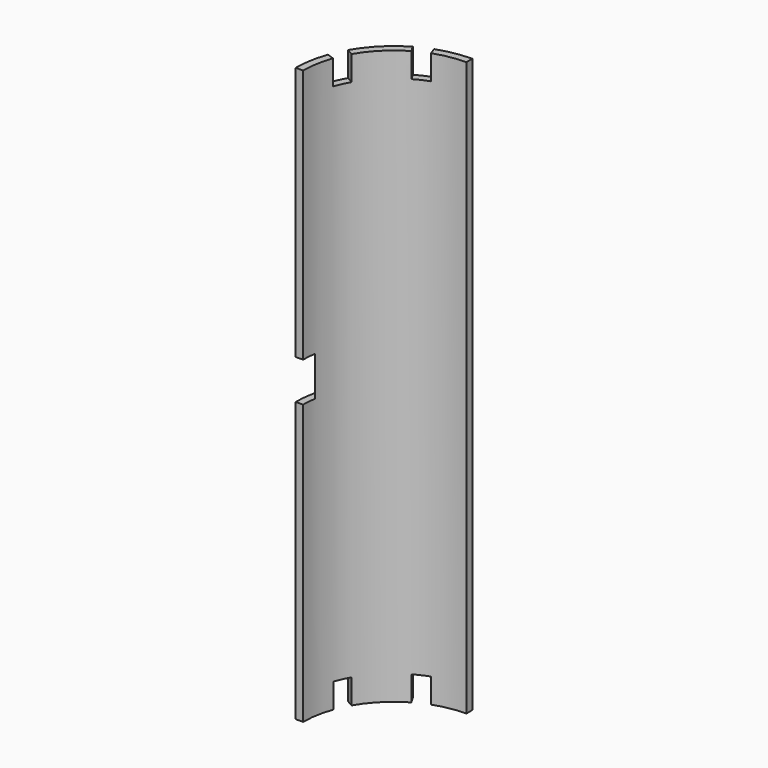
from build123d import *

# Parameters (mm, degrees)
PAD_DEPTH       = 232
POCKET_DEPTH    = 10
POCKET001_DEPTH = 10
SKETCH003_W     = 3.95
SKETCH003_H     = 16
POCKET002_DEPTH = 10


with BuildPart() as part:
    # Sketch → Pad (new body)
    with BuildSketch(Plane.XY):
        with BuildLine():
            ThreePointArc((0, 36.7), (-25.9508188695, 25.9508188695), (-36.7, 0))
            Line((-39.7, 0), (-36.7, 0))
            ThreePointArc((0, 39.7), (-28.0721392131, 28.0721392131), (-39.7, 0))
            Line((0, 36.7), (0, 39.7))
        make_face()
    extrude(amount=PAD_DEPTH)

    # Sketch001 (on Face6 of Pad) → Pocket (cut)
    with BuildSketch(Plane.XY.offset(232)):
        with BuildLine():
            Line((-34.546220009, 12.3874405384), (-37.3653275389, 13.4135117665))
            ThreePointArc((-34.3734039674, 19.8635117665), (-36.0140531533, 16.70562706), (-37.3653275389, 13.4135117665))
            Line((-34.3734039674, 19.8635117665), (-31.7753275389, 18.3635116412))
            ThreePointArc((-31.7753275389, 18.3635116412), (-33.2951238734, 15.4377694716), (-34.546220009, 12.3874405384))
        make_face()
        with BuildLine():
            ThreePointArc((-12.5518984396, 34.4868068334), (-15.5057350305, 33.2635262888), (-18.3418983946, 31.7878084064))
            Line((-18.3418983946, 31.7878084064), (-19.8418984396, 34.3858846958))
            ThreePointArc((-13.5779588696, 37.3058846958), (-16.7735898258, 35.9824496714), (-19.8418984396, 34.3858846958))
            Line((-13.5779588696, 37.3058846958), (-12.5518984396, 34.4868068334))
        make_face()
    extrude(amount=-POCKET_DEPTH, mode=Mode.SUBTRACT)

    # Sketch002 (on Face5 of Pad) → Pocket001 (cut)
    with BuildSketch(Plane(origin=(0, 0, 0), x_dir=(1, 0, 0), z_dir=(0, 0, -1))):
        with BuildLine():
            ThreePointArc((-37.3090779514, -13.5691820834), (-35.9850847763, -16.767935879), (-34.3874519885, -19.8391820834))
            Line((-31.789375638, -18.3391820031), (-34.3874519885, -19.8391820834))
            ThreePointArc((-34.49, -12.543121621), (-33.2661613014, -15.5000810407), (-31.789375638, -18.3391820031))
            Line((-34.49, -12.543121621), (-37.3090779514, -13.5691820834))
        make_face()
        with BuildLine():
            Line((-12.5521392601, -34.4867191828), (-13.57819969, -37.3057970452))
            ThreePointArc((-19.8453837991, -34.3838732819), (-16.7755295873, -35.981545368), (-13.57819969, -37.3057970452))
            Line((-18.3453837845, -31.7857970452), (-19.8453837991, -34.3838732819))
            ThreePointArc((-18.3453837845, -31.7857970452), (-15.507674799, -33.2626220002), (-12.5521392601, -34.4867191828))
        make_face()
    extrude(amount=-POCKET001_DEPTH, mode=Mode.SUBTRACT)

    # Sketch003 (on Face14 of Pocket001) → Pocket002 (cut)
    with BuildSketch(Plane.XZ):
        with Locations((-38.245, 121)):
            Rectangle(SKETCH003_W, SKETCH003_H)
    extrude(amount=-POCKET002_DEPTH, mode=Mode.SUBTRACT)


solid = part.part
